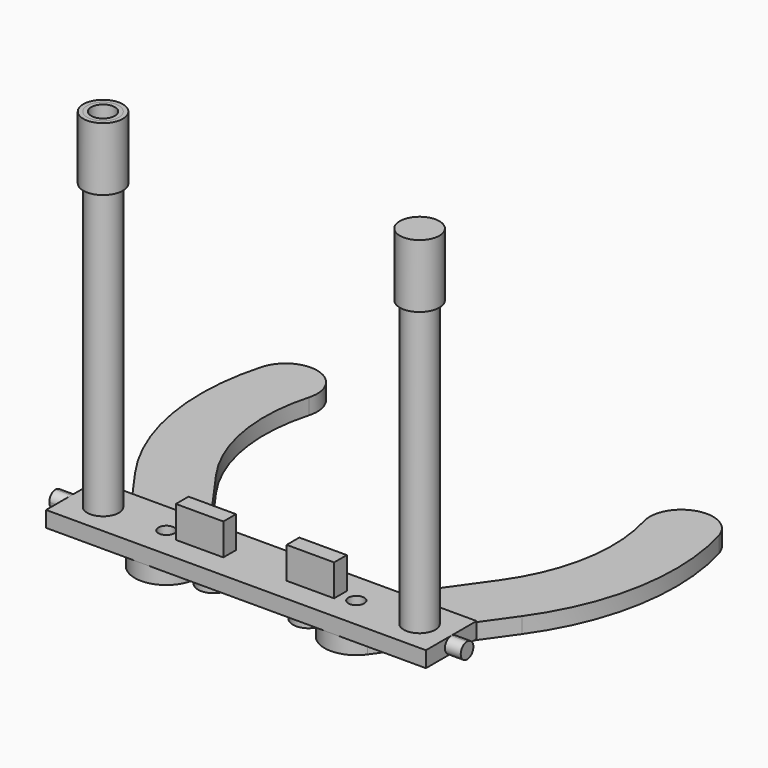
from build123d import *

# Parameters (mm, degrees)
F0_W      = 304.8
F0_H      = 50.8
F0_R      = 9.525
F1_DEPTH  = 12.7
F2_R      = 12.7
F2_R_2    = 9.525
F3_DEPTH  = 279.4
F4_W      = 38.1
F4_H      = 12.7
F5_DEPTH  = 25.4
F6_R      = 3.175
F6_R_2    = 6.35
F7_DEPTH  = 25.4
F9_DEPTH  = 12.7
F8_R      = 12.7
F10_R     = 15.875
F10_R_2   = 12.7
F11_DEPTH = 50.8
F14_DEPTH = 12.7
F15_DEPTH = 12.7


with BuildPart() as f1:
    # F0 (on Top) → F1 (new body)
    with BuildSketch(Plane.XY):
        with Locations((0, 25.4)):
            Rectangle(F0_W, F0_H)
        with Locations((-127, 25.4)):
            Circle(F0_R, mode=Mode.SUBTRACT)
        with Locations((127, 25.4)):
            Circle(F0_R, mode=Mode.SUBTRACT)
    extrude(amount=F1_DEPTH)


with BuildPart() as f3:
    # F2 (on face) → F3 (new body)
    with BuildSketch(Plane.XY.offset(12.7)):
        with Locations((-127, 25.4)):
            Circle(F2_R)
        with Locations((-127, 25.4)):
            Circle(F2_R_2, mode=Mode.SUBTRACT)
    extrude(amount=F3_DEPTH)


with BuildPart() as f3b:
    # F2 (on face) → F3, piece 2 (new body)
    with BuildSketch(Plane.XY.offset(12.7)):
        with Locations((127, 25.4)):
            Circle(F2_R)
        with Locations((127, 25.4)):
            Circle(F2_R_2, mode=Mode.SUBTRACT)
    extrude(amount=F3_DEPTH)


with BuildPart() as f5:
    # F4 (on face) → F5 (new body)
    with BuildSketch(Plane.XY.offset(12.7)):
        with Locations((44.45, 25.4)):
            Rectangle(F4_W, F4_H)
    extrude(amount=F5_DEPTH)


with BuildPart() as f5b:
    # F4 (on face) → F5, piece 2 (new body)
    with BuildSketch(Plane.XY.offset(12.7)):
        with Locations((-44.45, 25.4)):
            Rectangle(F4_W, F4_H)
    extrude(amount=F5_DEPTH)


with BuildPart() as f7_tool:
    # F6 (on face) → F7 (new body)
    with BuildSketch(Plane(origin=(0, 0, 0), x_dir=(1, 0, 0), z_dir=(0, 0, -1))):
        with Locations((-38.1, -25.4)):
            Circle(F6_R)
        with Locations((38.1, -25.4)):
            Circle(F6_R)
        with Locations((-76.2, -25.4)):
            Circle(F6_R_2)
        with Locations((76.2, -25.4)):
            Circle(F6_R_2)
    extrude(amount=-F7_DEPTH)


with BuildPart() as f1_1:
    add(f1.part)

    # F7: cut by f7_tool
    add(f7_tool.part, mode=Mode.SUBTRACT)

    # F12 (on face) → F14 (join)
    with BuildSketch(Plane.YZ.offset(152.4)):
        with BuildLine():
            ThreePointArc((25.4, 0), (29.8901280605, 1.8598719395), (31.75, 6.35))
            ThreePointArc((31.75, 6.35), (29.8901280605, 10.8401280605), (25.4, 12.7))
            ThreePointArc((25.4, 12.7), (19.05, 6.35), (25.4, 0))
        make_face()
    extrude(amount=F14_DEPTH)

    # F13 (on face) → F15 (join)
    with BuildSketch(Plane(origin=(-152.4, 0, 0), x_dir=(0, -1, 0), z_dir=(-1, 0, 0))):
        with BuildLine():
            ThreePointArc((-25.4, 0), (-20.9098719395, 1.8598719395), (-19.05, 6.35))
            ThreePointArc((-19.05, 6.35), (-20.9098719395, 10.8401280605), (-25.4, 12.7))
            ThreePointArc((-25.4, 12.7), (-31.75, 6.35), (-25.4, 0))
        make_face()
    extrude(amount=F15_DEPTH)


with BuildPart() as f5_1:
    add(f5.part)

    # F7: cut by f7_tool
    add(f7_tool.part, mode=Mode.SUBTRACT)


with BuildPart() as f5b_1:
    add(f5b.part)

    # F7: cut by f7_tool
    add(f7_tool.part, mode=Mode.SUBTRACT)


with BuildPart() as f9:
    # F8 (on face) → F9 (new body)
    with BuildSketch(Plane(origin=(0, 0, 0), x_dir=(1, 0, 0), z_dir=(0, 0, -1))):
        with BuildLine():
            Line((-113.8805225972, -122.2845096845), (-55.4944504369, -40.1119073301))
            ThreePointArc((-55.4944504369, -40.1119073301), (-52.002056297, -33.12136779), (-50.8, -25.4))
            ThreePointArc((-50.8, -25.4), (-68.47863221, -1.202056297), (-96.9055495631, -10.6880926699))
            Line((-96.9055495631, -10.6880926699), (-155.2916217234, -92.8606950243))
            ThreePointArc((-155.2916217234, -92.8606950243), (-187.7291663497, -170.8270158675), (-183.2784090028, -255.1545454545))
            ThreePointArc((-183.2784090028, -255.1545454545), (-151.9140150752, -272.6643939277), (-134.4041666021, -241.3))
            ThreePointArc((-134.4041666021, -241.3), (-137.6680553231, -179.4598116362), (-113.8805225972, -122.2845096845))
        make_face()
    extrude(amount=F9_DEPTH)


with BuildPart() as f9b:
    # F8 (on face) → F9, piece 2 (new body)
    with BuildSketch(Plane(origin=(0, 0, 0), x_dir=(1, 0, 0), z_dir=(0, 0, -1))):
        with BuildLine():
            ThreePointArc((-25.4, -25.4), (-38.1, -12.7), (-50.8, -25.4))
            ThreePointArc((-50.8, -25.4), (-38.1, -38.1), (-25.4, -25.4))
        make_face()
    extrude(amount=F9_DEPTH)


with BuildPart() as f9c:
    # F8 (on face) → F9, piece 3 (new body)
    with BuildSketch(Plane(origin=(0, 0, 0), x_dir=(1, 0, 0), z_dir=(0, 0, -1))):
        with Locations((38.1, -25.4)):
            Circle(F8_R)
    extrude(amount=F9_DEPTH)


with BuildPart() as f9d:
    # F8 (on face) → F9, piece 4 (new body)
    with BuildSketch(Plane(origin=(0, 0, 0), x_dir=(1, 0, 0), z_dir=(0, 0, -1))):
        with BuildLine():
            ThreePointArc((96.9055495631, -10.6880926699), (68.47863221, -1.202056297), (50.8, -25.4))
            ThreePointArc((50.8, -25.4), (52.002056297, -33.12136779), (55.4944504369, -40.1119073301))
            Line((55.4944504369, -40.1119073301), (113.8805225972, -122.2845096845))
            ThreePointArc((113.8805225972, -122.2845096845), (137.6680553231, -179.4598116362), (134.4041666021, -241.3))
            ThreePointArc((134.4041666021, -241.3), (151.9140150752, -272.6643939277), (183.2784090028, -255.1545454545))
            ThreePointArc((183.2784090028, -255.1545454545), (187.7291663497, -170.8270158675), (155.2916217234, -92.8606950243))
            Line((155.2916217234, -92.8606950243), (96.9055495631, -10.6880926699))
        make_face()
    extrude(amount=F9_DEPTH)


with BuildPart() as f11:
    # F10 (on face) → F11 (new body)
    with BuildSketch(Plane.XY.offset(292.1)):
        with Locations((-127, 25.4)):
            Circle(F10_R)
        with Locations((-127, 25.4)):
            Circle(F10_R_2, mode=Mode.SUBTRACT)
    extrude(amount=-F11_DEPTH)


with BuildPart() as f11b:
    # F10 (on face) → F11, piece 2 (new body)
    with BuildSketch(Plane.XY.offset(292.1)):
        with Locations((127, 25.4)):
            Circle(F10_R)
    extrude(amount=-F11_DEPTH)


solid = Compound([f3.part, f3b.part, f1_1.part, f5_1.part, f5b_1.part, f9.part, f9b.part, f9c.part, f9d.part, f11.part, f11b.part])
